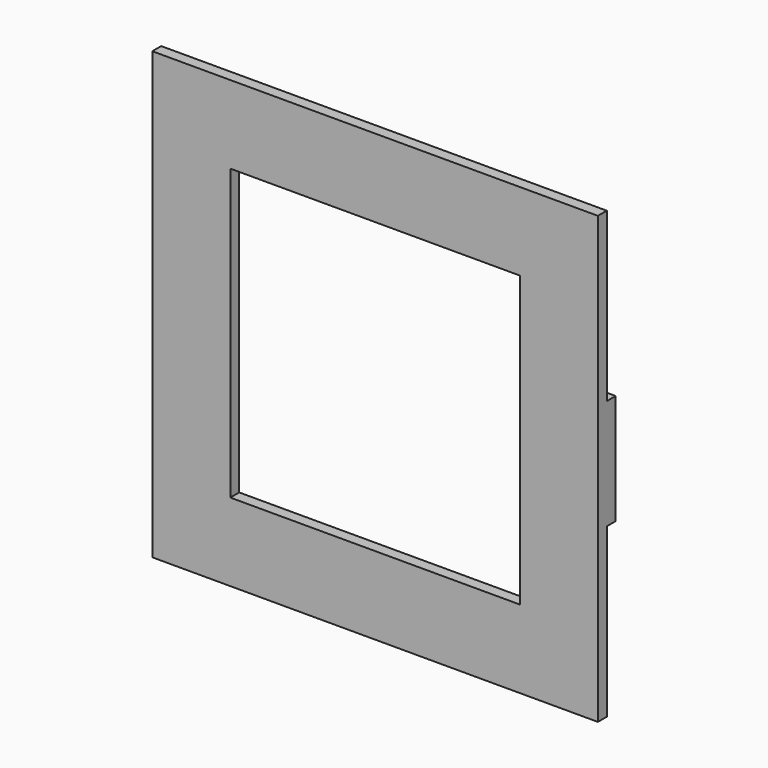
from build123d import *

# Parameters (mm, degrees)
F0_W     = 100
F0_H     = 100
F0_W_2   = 65
F0_H_2   = 65
F1_DEPTH = 2.5
F2_W     = 8.75
F2_H     = 24.739
F3_DEPTH = 2.5
F4_W     = 8.61061
F4_H     = 24.739
F5_DEPTH = 2.5
F6_W     = 24.739
F6_H     = 2.5
F7_DEPTH = 8.75


with BuildPart() as f1:
    # F0 (on Front) → F1 (new body)
    with BuildSketch(Plane.XZ):
        Rectangle(F0_W, F0_H)
        Rectangle(F0_W_2, F0_H_2, mode=Mode.SUBTRACT)
    extrude(amount=F1_DEPTH)

    # F2 (on face) → F3 (join)
    with BuildSketch(Plane(origin=(0, 0, 0), x_dir=(-1, 0, 0), z_dir=(0, 1, 0))):
        with Locations((45.625, -0.188954)):
            Rectangle(F2_W, F2_H)
    extrude(amount=F3_DEPTH)

    # F4 (on face) → F5 (join)
    with BuildSketch(Plane(origin=(0, 0, 0), x_dir=(-1, 0, 0), z_dir=(0, 1, 0))):
        with Locations((-45.694695, 0)):
            Rectangle(F4_W, F4_H)
    extrude(amount=F5_DEPTH)

    # F6 (on face) → F7 (join)
    with BuildSketch(Plane(origin=(0, 0, -50), x_dir=(1, 0, 0), z_dir=(0, 0, -1))):
        with Locations((0, -1.25)):
            Rectangle(F6_W, F6_H)
    extrude(amount=-F7_DEPTH)


solid = f1.part
